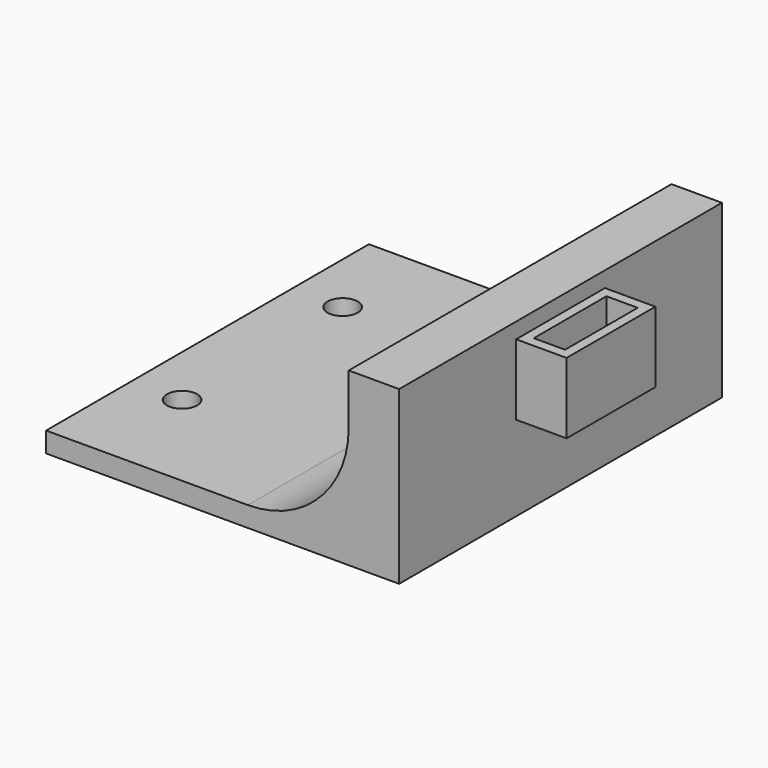
from build123d import *

# Parameters (mm, degrees)
F1_DEPTH = 40
F2_R     = 10
F3_R     = 1.5
F4_DEPTH = 6
F5_W     = 11
F5_H     = 7.0209084079
F6_DEPTH = 5
F7_W     = 3.1
F7_H     = 9
F8_DEPTH = 25


with BuildPart() as f1:
    # F0 (on Front) → F1 (new body)
    with BuildSketch(Plane.XZ):
        Polygon((-5, 15), (-5, 0), (-35, 0), (-35, -2), (-5, -2), (0, -2), (0, 0), (0, 15), align=None)
    extrude(amount=F1_DEPTH)

    # F2
    f2_edges = [f1.edges().sort_by_distance(p)[0] for p in [
        (-5, -20, 0),
    ]]
    fillet(f2_edges, radius=F2_R)

    # F3 (on face) → F4 (cut)
    with BuildSketch(Plane.XY):
        with Locations((-30, -9.5)):
            Circle(F3_R)
        with Locations((-30, -29.4)):
            Circle(F3_R)
    extrude(amount=-F4_DEPTH, mode=Mode.SUBTRACT)

    # F5 (on face) → F6 (join)
    with BuildSketch(Plane.YZ):
        with Locations((-20, 9.9406884983)):
            Rectangle(F5_W, F5_H)
    extrude(amount=F6_DEPTH)

    # F7 (on face) → F8 (cut)
    with BuildSketch(Plane.XY.offset(13.4511427023)):
        with Locations((2.5, -20)):
            Rectangle(F7_W, F7_H)
    extrude(amount=-F8_DEPTH, mode=Mode.SUBTRACT)


solid = f1.part
